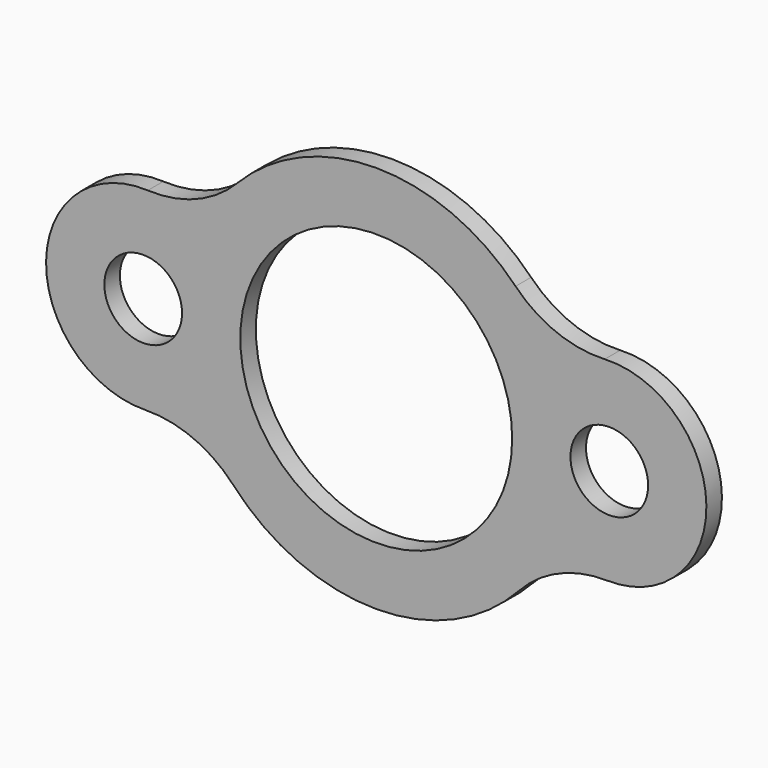
from build123d import *

# Parameters (mm, degrees)
F0_R     = 12.7
F0_R_2   = 44.45
F1_DEPTH = 6.35


with BuildPart() as f1:
    # F0 (on Front) → F1 (new body)
    with BuildSketch(Plane.XZ):
        with BuildLine():
            ThreePointArc((-79.008935, -21.492701), (-63.275636, -24.532778), (-50.183908, -33.773203))
            ThreePointArc((-50.183908, -33.773203), (-3.475674, -54.254709), (43.232561, -33.773203))
            ThreePointArc((43.232561, -33.773203), (56.324288, -24.532778), (72.057588, -21.492701))
            ThreePointArc((72.057588, -21.492701), (104.471565, 10.669013), (71.220645, 41.96467))
            ThreePointArc((71.220645, 41.96467), (55.41264, 44.588747), (42.081764, 53.480683))
            ThreePointArc((42.081764, 53.480683), (-3.475674, 72.745291), (-49.033112, 53.480683))
            ThreePointArc((-49.033112, 53.480683), (-62.363988, 44.588747), (-78.171992, 41.96467))
            ThreePointArc((-78.171992, 41.96467), (-111.422913, 10.669013), (-79.008935, -21.492701))
        make_face()
        with Locations((-79.675674, 10.250297)):
            Circle(F0_R, mode=Mode.SUBTRACT)
        with Locations((-3.475674, 9.245291)):
            Circle(F0_R_2, mode=Mode.SUBTRACT)
        with Locations((72.724326, 10.250297)):
            Circle(F0_R, mode=Mode.SUBTRACT)
    extrude(amount=F1_DEPTH)


solid = f1.part
